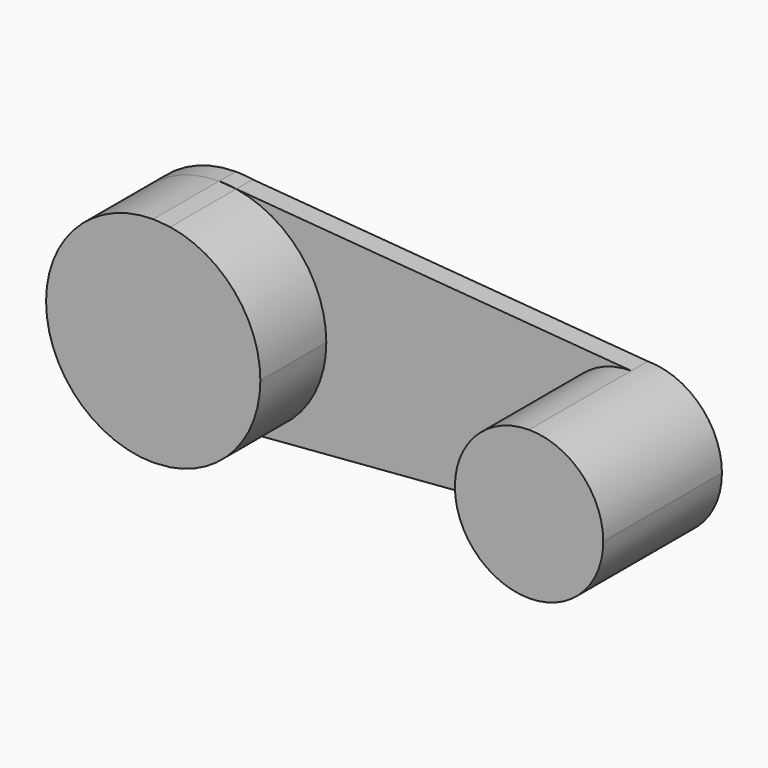
from build123d import *

# Parameters (mm, degrees)
F1_DEPTH = 25
F2_DEPTH = 5
F3_DEPTH = 36


with BuildPart() as f1:
    # F0 (on Front) → F1 (new body)
    with BuildSketch(Plane.XZ):
        with BuildLine():
            Line((-54.696154, 25.669316), (-58.8297, 26))
            ThreePointArc((-58.8297, 26), (-84.8297, 0), (-58.8297, -26))
            Line((-58.8297, -26), (-54.696154, -25.669316))
            ThreePointArc((-54.696154, -25.669316), (-39.037376, -16.860128), (-32.8297, 0))
            ThreePointArc((-32.8297, 0), (-39.037376, 16.860128), (-54.696154, 25.669316))
        make_face()
    extrude(amount=F1_DEPTH)


with BuildPart() as f2:
    # F0 (on Front) → F2 (new body)
    with BuildSketch(Plane.XZ):
        with BuildLine():
            Line((-54.696154, 25.669316), (-58.8297, 26))
            ThreePointArc((-58.8297, 26), (-84.8297, 0), (-58.8297, -26))
            Line((-58.8297, -26), (-54.696154, -25.669316))
            ThreePointArc((-54.696154, -25.669316), (-39.037376, -16.860128), (-32.8297, 0))
            ThreePointArc((-32.8297, 0), (-39.037376, 16.860128), (-54.696154, 25.669316))
        make_face()
        with BuildLine():
            ThreePointArc((-54.696154, 25.669316), (-56.756324, 25.917197), (-58.8297, 26))
            Line((-58.8297, 26), (-54.696154, 25.669316))
        make_face()
        with BuildLine():
            Line((-54.696154, -25.669316), (-58.8297, -26))
            ThreePointArc((-58.8297, -26), (-56.756324, -25.917197), (-54.696154, -25.669316))
        make_face()
        with BuildLine():
            Line((41.1703, 18), (-54.696154, 25.669316))
            ThreePointArc((-54.696154, 25.669316), (-39.037376, 16.860128), (-32.8297, 0))
            ThreePointArc((-32.8297, 0), (-39.037376, -16.860128), (-54.696154, -25.669316))
            Line((-54.696154, -25.669316), (41.1703, -18))
            ThreePointArc((41.1703, -18), (23.1703, 0), (41.1703, 18))
        make_face()
        with BuildLine():
            ThreePointArc((59.1703, 0), (53.898222, 12.727922), (41.1703, 18))
            ThreePointArc((41.1703, 18), (23.1703, 0), (41.1703, -18))
            ThreePointArc((41.1703, -18), (53.898222, -12.727922), (59.1703, 0))
        make_face()
    extrude(amount=F2_DEPTH)

    # F0 (on Front) → F3 (join)
    with BuildSketch(Plane.XZ):
        with BuildLine():
            ThreePointArc((59.1703, 0), (53.898222, 12.727922), (41.1703, 18))
            ThreePointArc((41.1703, 18), (23.1703, 0), (41.1703, -18))
            ThreePointArc((41.1703, -18), (53.898222, -12.727922), (59.1703, 0))
        make_face()
    extrude(amount=F3_DEPTH)


solid = Compound([f1.part, f2.part])
